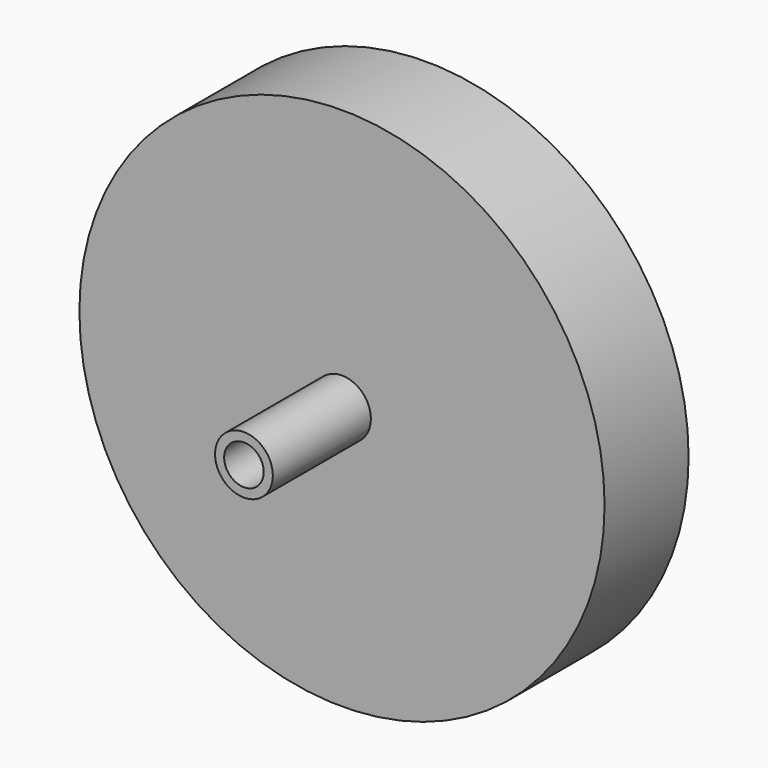
from build123d import *

# Parameters (mm, degrees)
F0_R     = 15
F0_R_2   = 2.3
F0_R_3   = 1.65
F0_R_4   = 1.13
F1_DEPTH = 6
F2_DEPTH = 7
F3_R     = 2.3
F3_R_2   = 1.13
F4_DEPTH = 3


with BuildPart() as f1:
    # F0 (on Front) → F1 (new body)
    with BuildSketch(Plane.XZ):
        Circle(F0_R)
        Circle(F0_R_2, mode=Mode.SUBTRACT)
        Circle(F0_R_2)
        Circle(F0_R_3, mode=Mode.SUBTRACT)
        Circle(F0_R_3)
        Circle(F0_R_4, mode=Mode.SUBTRACT)
    extrude(amount=-F1_DEPTH)

    # F0 (on Front) → F2 (join)
    with BuildSketch(Plane.XZ):
        Circle(F0_R_3)
        Circle(F0_R_4, mode=Mode.SUBTRACT)
    extrude(amount=F2_DEPTH)

    # F3 (on face) → F4 (cut)
    with BuildSketch(Plane(origin=(0, 6, 0), x_dir=(-1, 0, 0), z_dir=(0, 1, 0))):
        Circle(F3_R)
        Circle(F3_R_2, mode=Mode.SUBTRACT)
    extrude(amount=-F4_DEPTH, mode=Mode.SUBTRACT)


solid = f1.part
